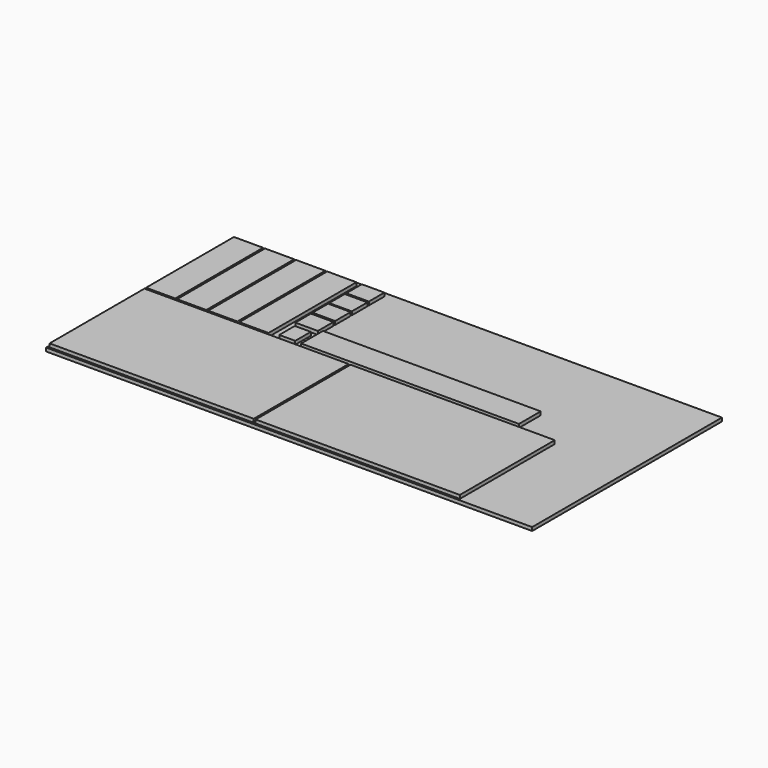
from build123d import *

# Parameters (mm, degrees)
BOX_W        = 2500
BOX_H        = 1220
BOX_DEPTH    = 18
SKETCH002_W  = 1050
SKETCH002_H  = 610
PAD_DEPTH    = 18
SKETCH005_W  = 150
SKETCH005_H  = 565
PAD004_DEPTH = 18
SKETCH004_W  = 150
SKETCH004_H  = 565
PAD005_DEPTH = 18
SKETCH_W     = 1050
SKETCH_H     = 610
PAD001_DEPTH = 18
SKETCH007_W  = 116
SKETCH007_H  = 100
PAD006_DEPTH = 18
SKETCH003_W  = 150
SKETCH003_H  = 565
PAD002_DEPTH = 18
SKETCH009_W  = 1120
SKETCH009_H  = 140
PAD007_DEPTH = 18
SKETCH006_W  = 150
SKETCH006_H  = 565
PAD003_DEPTH = 18
SKETCH010_W  = 82
SKETCH010_H  = 100
PAD008_DEPTH = 18


with BuildPart() as obj1:
    # Box → Box (new body)
    with BuildSketch(Plane.XY):
        with Locations((1250, 610)):
            Rectangle(BOX_W, BOX_H)
    extrude(amount=BOX_DEPTH)


with BuildPart() as pad:
    # Pad base: copy of obj1)
    add(obj1.part)

    # Sketch002 → Pad (new body)
    with BuildSketch(Plane.XY.offset(18)):
        with Locations((1595.094727, 315)):
            Rectangle(SKETCH002_W, SKETCH002_H)
    extrude(amount=PAD_DEPTH)


with BuildPart() as pad004:
    # Pad004 base: copy of Pad
    add(pad.part)

    # Sketch005 → Pad004 (new body)
    with BuildSketch(Plane.XY.offset(18)):
        with Locations((405.037323, 912.504272)):
            Rectangle(SKETCH005_W, SKETCH005_H)
    extrude(amount=PAD004_DEPTH)


with BuildPart() as pad005:
    # Pad005 base: copy of Pad
    add(pad.part)

    # Sketch004 → Pad005 (new body)
    with BuildSketch(Plane.XY.offset(18)):
        with Locations((244.99971, 912.496216)):
            Rectangle(SKETCH004_W, SKETCH004_H)
    extrude(amount=PAD005_DEPTH)


with BuildPart() as pad006:
    # Pad001 base: copy of obj1)
    add(obj1.part)

    # Sketch → Pad001 (new body)
    with BuildSketch(Plane.XY.offset(18)):
        with Locations((535, 315)):
            Rectangle(SKETCH_W, SKETCH_H)
    extrude(amount=PAD001_DEPTH)

    # Sketch007 → Pad006 (new body)
    with BuildSketch(Plane.XY.offset(18)):
        with Locations((725.975285, 1144.995477)):
            Rectangle(SKETCH007_W, SKETCH007_H)
        with Locations((725.975285, 1035.482117)):
            Rectangle(SKETCH007_W, SKETCH007_H)
        with Locations((725.975285, 817.496331)):
            Rectangle(SKETCH007_W, SKETCH007_H)
        with Locations((725.975285, 928.249755)):
            Rectangle(SKETCH007_W, SKETCH007_H)
    extrude(amount=PAD006_DEPTH)


with BuildPart() as pad007:
    # Pad002 base: copy of Pad
    add(pad.part)

    # Sketch003 → Pad002 (new body)
    with BuildSketch(Plane.XY.offset(18)):
        with Locations((85, 912.688904)):
            Rectangle(SKETCH003_W, SKETCH003_H)
    extrude(amount=PAD002_DEPTH)

    # Sketch009 → Pad007 (new body)
    with BuildSketch(Plane.XY.offset(18)):
        with Locations((1359.729137, 710.37044)):
            Rectangle(SKETCH009_W, SKETCH009_H)
    extrude(amount=PAD007_DEPTH)


with BuildPart() as pad008:
    # Pad003 base: copy of Pad
    add(pad.part)

    # Sketch006 → Pad003 (new body)
    with BuildSketch(Plane.XY.offset(18)):
        with Locations((565.017548, 912.491394)):
            Rectangle(SKETCH006_W, SKETCH006_H)
    extrude(amount=PAD003_DEPTH)

    # Sketch010 → Pad008 (new body)
    with BuildSketch(Plane.XY.offset(18)):
        with Locations((725.507202, 693.577392)):
            Rectangle(SKETCH010_W, SKETCH010_H)
    extrude(amount=PAD008_DEPTH)


solid = Compound([pad004.part, pad005.part, pad006.part, pad007.part, pad008.part])
